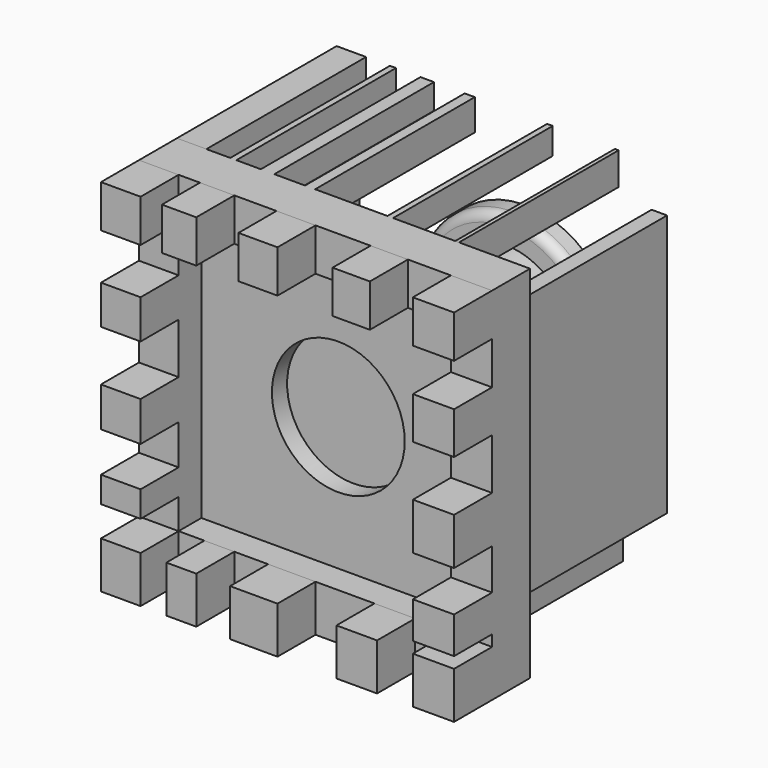
from build123d import *

# Parameters (mm, degrees)
F0_R      = 24.54751
F1_DEPTH  = 6.4516
F2_R      = 17.750201
F3_DEPTH  = 50.8
F4_W      = 94.38599
F4_H      = 96.335902
F4_R      = 17.750201
F5_DEPTH  = 5.08
F6_W      = 11.005696
F6_H      = 72.476894
F7_DEPTH  = 7.62
F8_W      = 11.005696
F8_H      = 11.373631
F8_W_2    = 9.980532
F8_W_3    = 10.432543
F8_W_4    = 9.178839
F8_W_5    = 10.596194
F8_H_2    = 10.414876
F8_H_3    = 10.57471
F8_H_4    = 6.942585
F8_H_5    = 12.485377
F8_H_6    = 11.247665
F8_H_7    = 12.525991
F8_H_8    = 9.800754
F8_W_6    = 10.857363
F8_W_7    = 12.672728
F8_W_8    = 7.997429
F9_DEPTH  = 12.7
F10_W     = 6.173835
F10_H     = 56.392216
F10_W_2   = 1.419176
F10_H_2   = 8.722625
F10_W_3   = 1.769036
F10_H_3   = 8.613854
F10_W_4   = 1.518196
F10_H_4   = 7.775656
F10_W_5   = 1.627106
F10_H_5   = 8.650846
F10_W_6   = 4.123986
F10_H_6   = 70.062936
F10_W_7   = 1.003256
F10_H_7   = 8.657101
F10_W_8   = 1.5072
F10_H_8   = 7.067542
F10_W_9   = 2.699587
F10_H_9   = 8.315302
F10_W_10  = 3.607059
F10_H_10  = 6.74723
F10_W_11  = 7.876456
F10_H_11  = 6.528601
F10_W_12  = 1.614538
F11_DEPTH = 53.34
F12_R     = 2.54


with BuildPart() as f1:
    # F0 (on Front) → F1 (new body)
    with BuildSketch(Plane.XZ):
        Circle(F0_R)
    extrude(amount=F1_DEPTH)

    # F2 (on face) → F3 (join)
    with BuildSketch(Plane.XZ.offset(6.4516)):
        Circle(F2_R)
    extrude(amount=F3_DEPTH)

    # F12
    f12_edges = [f1.edges().sort_by_distance(p)[0] for p in [
        (-24.54751, -6.4516, 0),
    ]]
    fillet(f12_edges, radius=F12_R)


with BuildPart() as f5:
    # F4 (on face) → F5 (new body)
    with BuildSketch(Plane.XZ.offset(57.2516)):
        Rectangle(F4_W, F4_H)
        Circle(F4_R, mode=Mode.SUBTRACT)
    extrude(amount=F5_DEPTH)

    # F6 (on face) → F7 (join)
    with BuildSketch(Plane.XZ.offset(62.3316)):
        Polygon((-36.596801, 48.167951), (-47.192995, 48.167951), (-47.192995, -48.167951), (-36.596801, -48.167951), (-36.596801, -35.682574), (-36.596801, 36.79432), align=None)
        Polygon((47.192995, 48.167951), (-36.596801, 48.167951), (-36.596801, 36.79432), (36.187299, 36.79432), (47.192995, 36.79432), align=None)
        Polygon((-36.596801, -35.682574), (-36.596801, -48.167951), (47.192995, -48.167951), (47.192995, -35.682574), (36.187299, -35.682574), align=None)
        with Locations((41.690147, 0.555873)):
            Rectangle(F6_W, F6_H)
    extrude(amount=F7_DEPTH)

    # F8 (on face) → F9 (join)
    with BuildSketch(Plane.XZ.offset(69.9516)):
        with Locations((41.690147, 42.481135)):
            Rectangle(F8_W, F8_H)
        with Locations((19.70381, 42.481135)):
            Rectangle(F8_W_2, F8_H)
        with Locations((-5.216271, 42.481135)):
            Rectangle(F8_W_3, F8_H)
        with Locations((-26.302664, 42.481135)):
            Rectangle(F8_W_4, F8_H)
        with Locations((-41.894898, 42.481135)):
            Rectangle(F8_W_5, F8_H)
        with Locations((-41.894898, 19.306637)):
            Rectangle(F8_W_5, F8_H_2)
        with Locations((-41.894898, -4.731482)):
            Rectangle(F8_W_5, F8_H_3)
        with Locations((-41.894898, -24.152085)):
            Rectangle(F8_W_5, F8_H_4)
        with Locations((-41.894898, -41.925262)):
            Rectangle(F8_W_5, F8_H_5)
        with Locations((41.690147, 19.783948)):
            Rectangle(F8_W, F8_H_6)
        with Locations((41.690147, -5.707122)):
            Rectangle(F8_W, F8_H_7)
        with Locations((41.690147, -27.792733)):
            Rectangle(F8_W, F8_H_8)
        with Locations((41.690147, -41.925262)):
            Rectangle(F8_W, F8_H_5)
        with Locations((21.188648, -41.925262)):
            Rectangle(F8_W_6, F8_H_5)
        with Locations((-6.336364, -41.925262)):
            Rectangle(F8_W_7, F8_H_5)
        with Locations((-25.711959, -41.925262)):
            Rectangle(F8_W_8, F8_H_5)
    extrude(amount=F9_DEPTH)

    # F10 (on face) → F11 (join)
    with BuildSketch(Plane(origin=(0, -57.2516, 0), x_dir=(-1, 0, 0), z_dir=(0, 1, 0))):
        with Locations((44.106077, -1.896983)):
            Rectangle(F10_W, F10_H)
        with Locations((35.666419, -43.806638)):
            Rectangle(F10_W_2, F10_H_2)
        with Locations((9.066055, -43.861024)):
            Rectangle(F10_W_3, F10_H_3)
        with Locations((-10.812941, -44.280123)):
            Rectangle(F10_W_4, F10_H_4)
        with Locations((-28.553646, -43.842528)):
            Rectangle(F10_W_5, F10_H_5)
        with Locations((-39.077129, 2.015747)):
            Rectangle(F10_W_6, F10_H_6)
        with Locations((-27.696592, 43.8394)):
            Rectangle(F10_W_7, F10_H_7)
        with Locations((-9.824388, 44.63418)):
            Rectangle(F10_W_8, F10_H_8)
        with Locations((11.608414, 44.0103)):
            Rectangle(F10_W_9, F10_H_9)
        with Locations((22.960809, 44.794336)):
            Rectangle(F10_W_10, F10_H_10)
        with Locations((43.254767, 44.90365)):
            Rectangle(F10_W_11, F10_H_11)
        with Locations((32.13167, 44.794336)):
            Rectangle(F10_W_12, F10_H_10)
    extrude(amount=F11_DEPTH)


solid = Compound([f1.part, f5.part])
